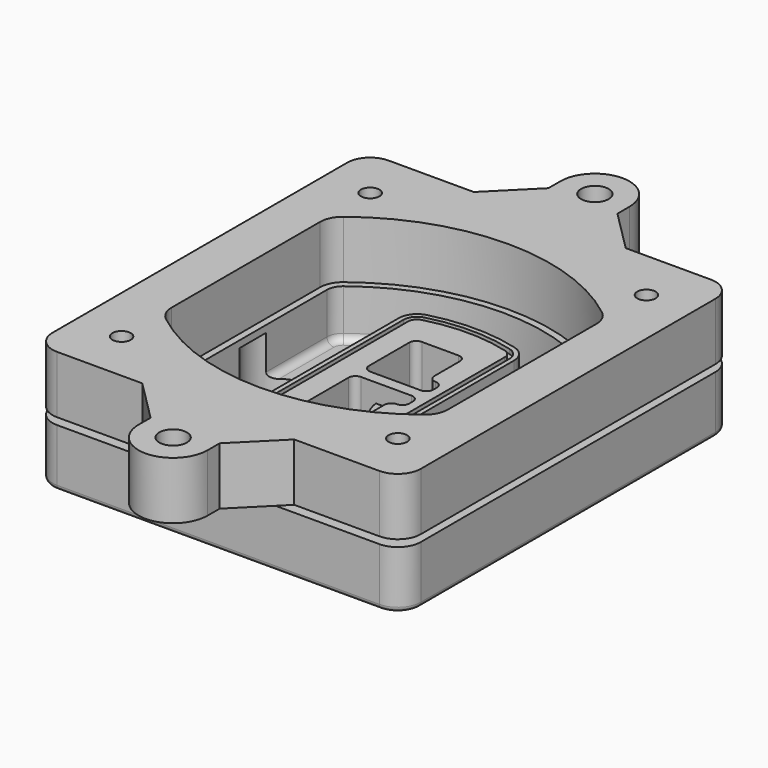
from build123d import *

# Parameters (mm, degrees)
F0_R      = 4
F1_DEPTH  = 25
F2_DEPTH  = 3
F3_DEPTH  = 18
F5_DEPTH  = 21
F6_DEPTH  = 2
F8_DEPTH  = 20
F9_DEPTH  = 16
F10_DEPTH = 25
F7_R      = 6
F7_R_2    = 4
F11_DEPTH = 6
F13_DEPTH = 9
F14_R     = 3
F15_R     = 2
F16_R     = 4
F16_R_2   = 6
F17_DEPTH = 25


with BuildPart() as f1:
    # F0 (on Top) → F1 (new body)
    with BuildSketch(Plane.XY):
        with BuildLine():
            ThreePointArc((-80, -80), (-77.0710678119, -87.0710678119), (-70, -90))
            Line((-70, -90), (70, -90))
            ThreePointArc((70, -90), (77.0710678119, -87.0710678119), (80, -80))
            Line((80, -80), (80, 80))
            ThreePointArc((80, 80), (77.0710678119, 87.0710678119), (70, 90))
            Line((70, 90), (-70, 90))
            ThreePointArc((-70, 90), (-77.0710678119, 87.0710678119), (-80, 80))
            Line((-80, 80), (-80, -80))
        make_face()
        with Locations((-60, -67.5)):
            Circle(F0_R, mode=Mode.SUBTRACT)
        with Locations((60, -67.5)):
            Circle(F0_R, mode=Mode.SUBTRACT)
        with Locations((-60, 67.5)):
            Circle(F0_R, mode=Mode.SUBTRACT)
        with BuildLine():
            ThreePointArc((-64, 40.2934422872), (-62.5820384798, 46.4328484224), (-58.6153846154, 51.3286200352))
            ThreePointArc((-58.6153846154, 51.3286200352), (0, 71.5), (58.6153846154, 51.3286200352))
            ThreePointArc((58.6153846154, 51.3286200352), (62.5820384798, 46.4328484224), (64, 40.2934422872))
            Line((64, 40.2934422872), (64, -40.2934422872))
            ThreePointArc((64, -40.2934422872), (62.5820384798, -46.4328484224), (58.6153846154, -51.3286200352))
            ThreePointArc((58.6153846154, -51.3286200352), (0, -71.5), (-58.6153846154, -51.3286200352))
            ThreePointArc((-58.6153846154, -51.3286200352), (-62.5820384798, -46.4328484224), (-64, -40.2934422872))
            Line((-64, -40.2934422872), (-64, 40.2934422872))
        make_face(mode=Mode.SUBTRACT)
        with Locations((60, 67.5)):
            Circle(F0_R, mode=Mode.SUBTRACT)
        with BuildLine():
            ThreePointArc((58.6153846154, 51.3286200352), (0, 71.5), (-58.6153846154, 51.3286200352))
            ThreePointArc((-58.6153846154, 51.3286200352), (-62.5820384798, 46.4328484224), (-64, 40.2934422872))
            Line((-64, 40.2934422872), (-64, -40.2934422872))
            ThreePointArc((-64, -40.2934422872), (-62.5820384798, -46.4328484224), (-58.6153846154, -51.3286200352))
            ThreePointArc((-58.6153846154, -51.3286200352), (0, -71.5), (58.6153846154, -51.3286200352))
            ThreePointArc((58.6153846154, -51.3286200352), (62.5820384798, -46.4328484224), (64, -40.2934422872))
            Line((64, -40.2934422872), (64, 40.2934422872))
            ThreePointArc((64, 40.2934422872), (62.5820384798, 46.4328484224), (58.6153846154, 51.3286200352))
        make_face()
        with BuildLine():
            Line((-60, -40.2934422872), (-60, 40.2934422872))
            ThreePointArc((-60, 40.2934422872), (-58.9871703427, 44.6787323838), (-56.1538461538, 48.1757121072))
            ThreePointArc((-56.1538461538, 48.1757121072), (0, 67.5), (56.1538461538, 48.1757121072))
            ThreePointArc((56.1538461538, 48.1757121072), (58.9871703427, 44.6787323838), (60, 40.2934422872))
            Line((60, 40.2934422872), (60, -40.2934422872))
            ThreePointArc((60, -40.2934422872), (58.9871703427, -44.6787323838), (56.1538461538, -48.1757121072))
            ThreePointArc((56.1538461538, -48.1757121072), (0, -67.5), (-56.1538461538, -48.1757121072))
            ThreePointArc((-56.1538461538, -48.1757121072), (-58.9871703427, -44.6787323838), (-60, -40.2934422872))
        make_face(mode=Mode.SUBTRACT)
        with BuildLine():
            ThreePointArc((-56.1538461538, 48.1757121072), (-58.9871703427, 44.6787323838), (-60, 40.2934422872))
            Line((-60, 40.2934422872), (-60, -40.2934422872))
            ThreePointArc((-60, -40.2934422872), (-58.9871703427, -44.6787323838), (-56.1538461538, -48.1757121072))
            ThreePointArc((-56.1538461538, -48.1757121072), (0, -67.5), (56.1538461538, -48.1757121072))
            ThreePointArc((56.1538461538, -48.1757121072), (58.9871703427, -44.6787323838), (60, -40.2934422872))
            Line((60, -40.2934422872), (60, 40.2934422872))
            ThreePointArc((60, 40.2934422872), (58.9871703427, 44.6787323838), (56.1538461538, 48.1757121072))
            ThreePointArc((56.1538461538, 48.1757121072), (0, 67.5), (-56.1538461538, 48.1757121072))
        make_face()
        with BuildLine():
            ThreePointArc((54.3076923077, 45.8110311612), (56.2910192399, 43.3631453548), (57, 40.2934422872))
            Line((57, 40.2934422872), (57, -40.2934422872))
            ThreePointArc((57, -40.2934422872), (56.2910192399, -43.3631453548), (54.3076923077, -45.8110311612))
            ThreePointArc((54.3076923077, -45.8110311612), (0, -64.5), (-54.3076923077, -45.8110311612))
            ThreePointArc((-54.3076923077, -45.8110311612), (-56.2910192399, -43.3631453548), (-57, -40.2934422872))
            Line((-57, -40.2934422872), (-57, 40.2934422872))
            ThreePointArc((-57, 40.2934422872), (-56.2910192399, 43.3631453548), (-54.3076923077, 45.8110311612))
            ThreePointArc((-54.3076923077, 45.8110311612), (0, 64.5), (54.3076923077, 45.8110311612))
        make_face(mode=Mode.SUBTRACT)
        with BuildLine():
            Line((57, -40.2934422872), (57, 40.2934422872))
            ThreePointArc((57, 40.2934422872), (56.2910192399, 43.3631453548), (54.3076923077, 45.8110311612))
            ThreePointArc((54.3076923077, 45.8110311612), (0, 64.5), (-54.3076923077, 45.8110311612))
            ThreePointArc((-54.3076923077, 45.8110311612), (-56.2910192399, 43.3631453548), (-57, 40.2934422872))
            Line((-57, 40.2934422872), (-57, -40.2934422872))
            ThreePointArc((-57, -40.2934422872), (-56.2910192399, -43.3631453548), (-54.3076923077, -45.8110311612))
            ThreePointArc((-54.3076923077, -45.8110311612), (0, -64.5), (54.3076923077, -45.8110311612))
            ThreePointArc((54.3076923077, -45.8110311612), (56.2910192399, -43.3631453548), (57, -40.2934422872))
        make_face()
    extrude(amount=-F1_DEPTH)

    # F0 (on Top) → F2 (join)
    with BuildSketch(Plane.XY):
        with BuildLine():
            ThreePointArc((-56.1538461538, 48.1757121072), (-58.9871703427, 44.6787323838), (-60, 40.2934422872))
            Line((-60, 40.2934422872), (-60, -40.2934422872))
            ThreePointArc((-60, -40.2934422872), (-58.9871703427, -44.6787323838), (-56.1538461538, -48.1757121072))
            ThreePointArc((-56.1538461538, -48.1757121072), (0, -67.5), (56.1538461538, -48.1757121072))
            ThreePointArc((56.1538461538, -48.1757121072), (58.9871703427, -44.6787323838), (60, -40.2934422872))
            Line((60, -40.2934422872), (60, 40.2934422872))
            ThreePointArc((60, 40.2934422872), (58.9871703427, 44.6787323838), (56.1538461538, 48.1757121072))
            ThreePointArc((56.1538461538, 48.1757121072), (0, 67.5), (-56.1538461538, 48.1757121072))
        make_face()
        with BuildLine():
            ThreePointArc((54.3076923077, 45.8110311612), (56.2910192399, 43.3631453548), (57, 40.2934422872))
            Line((57, 40.2934422872), (57, -40.2934422872))
            ThreePointArc((57, -40.2934422872), (56.2910192399, -43.3631453548), (54.3076923077, -45.8110311612))
            ThreePointArc((54.3076923077, -45.8110311612), (0, -64.5), (-54.3076923077, -45.8110311612))
            ThreePointArc((-54.3076923077, -45.8110311612), (-56.2910192399, -43.3631453548), (-57, -40.2934422872))
            Line((-57, -40.2934422872), (-57, 40.2934422872))
            ThreePointArc((-57, 40.2934422872), (-56.2910192399, 43.3631453548), (-54.3076923077, 45.8110311612))
            ThreePointArc((-54.3076923077, 45.8110311612), (0, 64.5), (54.3076923077, 45.8110311612))
        make_face(mode=Mode.SUBTRACT)
    extrude(amount=F2_DEPTH)

    # F0 (on Top) → F3 (cut)
    with BuildSketch(Plane.XY):
        with BuildLine():
            Line((57, -40.2934422872), (57, 40.2934422872))
            ThreePointArc((57, 40.2934422872), (56.2910192399, 43.3631453548), (54.3076923077, 45.8110311612))
            ThreePointArc((54.3076923077, 45.8110311612), (0, 64.5), (-54.3076923077, 45.8110311612))
            ThreePointArc((-54.3076923077, 45.8110311612), (-56.2910192399, 43.3631453548), (-57, 40.2934422872))
            Line((-57, 40.2934422872), (-57, -40.2934422872))
            ThreePointArc((-57, -40.2934422872), (-56.2910192399, -43.3631453548), (-54.3076923077, -45.8110311612))
            ThreePointArc((-54.3076923077, -45.8110311612), (0, -64.5), (54.3076923077, -45.8110311612))
            ThreePointArc((54.3076923077, -45.8110311612), (56.2910192399, -43.3631453548), (57, -40.2934422872))
        make_face()
    extrude(amount=-F3_DEPTH, mode=Mode.SUBTRACT)

    # F4 (on face) → F5 (join, through all)
    with BuildSketch(Plane.XY.offset(3)):
        with BuildLine():
            ThreePointArc((-25, -39.2465276821), (-23.3511545998, -44.1109737193), (-19.0842911877, -46.9702398883))
            ThreePointArc((-19.0842911877, -46.9702398883), (0, -49.5), (19.0842911877, -46.9702398883))
            ThreePointArc((19.0842911877, -46.9702398883), (23.3511545998, -44.1109737193), (25, -39.2465276821))
            Line((25, -39.2465276821), (25, 39.2465276821))
            ThreePointArc((25, 39.2465276821), (23.3511545998, 44.1109737193), (19.0842911877, 46.9702398883))
            ThreePointArc((19.0842911877, 46.9702398883), (0, 49.5), (-19.0842911877, 46.9702398883))
            ThreePointArc((-19.0842911877, 46.9702398883), (-23.3511545998, 44.1109737193), (-25, 39.2465276821))
            Line((-25, 39.2465276821), (-25, -39.2465276821))
        make_face()
        with BuildLine():
            ThreePointArc((18.5632183908, 45.0393118368), (21.7633659499, 42.89486221), (23, 39.2465276821))
            Line((23, 39.2465276821), (23, -39.2465276821))
            ThreePointArc((23, -39.2465276821), (21.7633659499, -42.89486221), (18.5632183908, -45.0393118368))
            ThreePointArc((18.5632183908, -45.0393118368), (0, -47.5), (-18.5632183908, -45.0393118368))
            ThreePointArc((-18.5632183908, -45.0393118368), (-21.7633659499, -42.89486221), (-23, -39.2465276821))
            Line((-23, -39.2465276821), (-23, 39.2465276821))
            ThreePointArc((-23, 39.2465276821), (-21.7633659499, 42.89486221), (-18.5632183908, 45.0393118368))
            ThreePointArc((-18.5632183908, 45.0393118368), (0, 47.5), (18.5632183908, 45.0393118368))
        make_face(mode=Mode.SUBTRACT)
        with BuildLine():
            Line((23, -39.2465276821), (23, 39.2465276821))
            ThreePointArc((23, 39.2465276821), (21.7633659499, 42.89486221), (18.5632183908, 45.0393118368))
            ThreePointArc((18.5632183908, 45.0393118368), (0, 47.5), (-18.5632183908, 45.0393118368))
            ThreePointArc((-18.5632183908, 45.0393118368), (-21.7633659499, 42.89486221), (-23, 39.2465276821))
            Line((-23, 39.2465276821), (-23, -39.2465276821))
            ThreePointArc((-23, -39.2465276821), (-21.7633659499, -42.89486221), (-18.5632183908, -45.0393118368))
            ThreePointArc((-18.5632183908, -45.0393118368), (0, -47.5), (18.5632183908, -45.0393118368))
            ThreePointArc((18.5632183908, -45.0393118368), (21.7633659499, -42.89486221), (23, -39.2465276821))
        make_face()
        with BuildLine():
            ThreePointArc((18.0421455939, 43.1083837852), (20.1755772999, 41.6787507007), (21, 39.2465276821))
            Line((21, 39.2465276821), (21, -39.2465276821))
            ThreePointArc((21, -39.2465276821), (20.1755772999, -41.6787507007), (18.0421455939, -43.1083837852))
            ThreePointArc((18.0421455939, -43.1083837852), (0, -45.5), (-18.0421455939, -43.1083837852))
            ThreePointArc((-18.0421455939, -43.1083837852), (-20.1755772999, -41.6787507007), (-21, -39.2465276821))
            Line((-21, -39.2465276821), (-21, 39.2465276821))
            ThreePointArc((-21, 39.2465276821), (-20.1755772999, 41.6787507007), (-18.0421455939, 43.1083837852))
            ThreePointArc((-18.0421455939, 43.1083837852), (0, 45.5), (18.0421455939, 43.1083837852))
        make_face(mode=Mode.SUBTRACT)
        with BuildLine():
            Line((21, -39.2465276821), (21, 39.2465276821))
            ThreePointArc((21, 39.2465276821), (20.1755772999, 41.6787507007), (18.0421455939, 43.1083837852))
            ThreePointArc((18.0421455939, 43.1083837852), (0, 45.5), (-18.0421455939, 43.1083837852))
            ThreePointArc((-18.0421455939, 43.1083837852), (-20.1755772999, 41.6787507007), (-21, 39.2465276821))
            Line((-21, 39.2465276821), (-21, -39.2465276821))
            ThreePointArc((-21, -39.2465276821), (-20.1755772999, -41.6787507007), (-18.0421455939, -43.1083837852))
            ThreePointArc((-18.0421455939, -43.1083837852), (0, -45.5), (18.0421455939, -43.1083837852))
            ThreePointArc((18.0421455939, -43.1083837852), (20.1755772999, -41.6787507007), (21, -39.2465276821))
        make_face()
        with BuildLine():
            Line((-8, -2.5), (14, -2.5))
            ThreePointArc((14, -2.5), (16.1213203436, -3.3786796564), (17, -5.5))
            Line((17, -5.5), (17, -7.5))
            ThreePointArc((17, -7.5), (16.1213203436, -9.6213203436), (14, -10.5))
            ThreePointArc((14, -10.5), (11.8786796564, -11.3786796564), (11, -13.5))
            Line((11, -13.5), (11, -27.5))
            ThreePointArc((11, -27.5), (10.1213203436, -29.6213203436), (8, -30.5))
            Line((8, -30.5), (-8, -30.5))
            ThreePointArc((-8, -30.5), (-10.1213203436, -29.6213203436), (-11, -27.5))
            Line((-11, -27.5), (-11, -5.5))
            ThreePointArc((-11, -5.5), (-10.1213203436, -3.3786796564), (-8, -2.5))
        make_face(mode=Mode.SUBTRACT)
        with BuildLine():
            ThreePointArc((-8, 2.5), (-10.1213203436, 3.3786796564), (-11, 5.5))
            Line((-11, 5.5), (-11, 27.5))
            ThreePointArc((-11, 27.5), (-10.1213203436, 29.6213203436), (-8, 30.5))
            Line((-8, 30.5), (8, 30.5))
            ThreePointArc((8, 30.5), (10.1213203436, 29.6213203436), (11, 27.5))
            Line((11, 27.5), (11, 13.5))
            ThreePointArc((11, 13.5), (11.8786796564, 11.3786796564), (14, 10.5))
            ThreePointArc((14, 10.5), (16.1213203436, 9.6213203436), (17, 7.5))
            Line((17, 7.5), (17, 5.5))
            ThreePointArc((17, 5.5), (16.1213203436, 3.3786796564), (14, 2.5))
            Line((14, 2.5), (-8, 2.5))
        make_face(mode=Mode.SUBTRACT)
    extrude(amount=-F5_DEPTH)

    # F4 (on face) → F6 (cut)
    with BuildSketch(Plane.XY.offset(3)):
        with BuildLine():
            Line((23, -39.2465276821), (23, 39.2465276821))
            ThreePointArc((23, 39.2465276821), (21.7633659499, 42.89486221), (18.5632183908, 45.0393118368))
            ThreePointArc((18.5632183908, 45.0393118368), (0, 47.5), (-18.5632183908, 45.0393118368))
            ThreePointArc((-18.5632183908, 45.0393118368), (-21.7633659499, 42.89486221), (-23, 39.2465276821))
            Line((-23, 39.2465276821), (-23, -39.2465276821))
            ThreePointArc((-23, -39.2465276821), (-21.7633659499, -42.89486221), (-18.5632183908, -45.0393118368))
            ThreePointArc((-18.5632183908, -45.0393118368), (0, -47.5), (18.5632183908, -45.0393118368))
            ThreePointArc((18.5632183908, -45.0393118368), (21.7633659499, -42.89486221), (23, -39.2465276821))
        make_face()
        with BuildLine():
            ThreePointArc((18.0421455939, 43.1083837852), (20.1755772999, 41.6787507007), (21, 39.2465276821))
            Line((21, 39.2465276821), (21, -39.2465276821))
            ThreePointArc((21, -39.2465276821), (20.1755772999, -41.6787507007), (18.0421455939, -43.1083837852))
            ThreePointArc((18.0421455939, -43.1083837852), (0, -45.5), (-18.0421455939, -43.1083837852))
            ThreePointArc((-18.0421455939, -43.1083837852), (-20.1755772999, -41.6787507007), (-21, -39.2465276821))
            Line((-21, -39.2465276821), (-21, 39.2465276821))
            ThreePointArc((-21, 39.2465276821), (-20.1755772999, 41.6787507007), (-18.0421455939, 43.1083837852))
            ThreePointArc((-18.0421455939, 43.1083837852), (0, 45.5), (18.0421455939, 43.1083837852))
        make_face(mode=Mode.SUBTRACT)
    extrude(amount=-F6_DEPTH, mode=Mode.SUBTRACT)

    # F7 (on face) → F8 (join)
    with BuildSketch(Plane(origin=(0, 0, -25), x_dir=(1, 0, 0), z_dir=(0, 0, -1))):
        with BuildLine():
            ThreePointArc((3.28842436, 0), (16.7567035675, 13.4682792075), (30.224982775, 0))
            Line((30.224982775, 0), (35.224982775, 0))
            ThreePointArc((35.224982775, 0), (16.7567035675, 18.4682792075), (-1.71157564, 0))
            Line((-1.71157564, 0), (3.28842436, 0))
        make_face()
        with BuildLine():
            Line((3.28842436, 0), (30.224982775, 0))
            ThreePointArc((30.224982775, 0), (16.7567035675, 13.4682792075), (3.28842436, 0))
        make_face()
        with BuildLine():
            ThreePointArc((3.28842436, 0), (16.7567035675, -13.4682792075), (30.224982775, 0))
            Line((30.224982775, 0), (3.28842436, 0))
        make_face()
        with BuildLine():
            Line((35.224982775, 0), (30.224982775, 0))
            ThreePointArc((30.224982775, 0), (16.7567035675, -13.4682792075), (3.28842436, 0))
            Line((3.28842436, 0), (-1.71157564, 0))
            ThreePointArc((-1.71157564, 0), (16.7567035675, -18.4682792075), (35.224982775, 0))
        make_face()
    extrude(amount=-F8_DEPTH)

    # F7 (on face) → F9 (cut)
    with BuildSketch(Plane(origin=(0, 0, -25), x_dir=(1, 0, 0), z_dir=(0, 0, -1))):
        with BuildLine():
            Line((3.28842436, 0), (30.224982775, 0))
            ThreePointArc((30.224982775, 0), (16.7567035675, 13.4682792075), (3.28842436, 0))
        make_face()
        with BuildLine():
            ThreePointArc((3.28842436, 0), (16.7567035675, -13.4682792075), (30.224982775, 0))
            Line((30.224982775, 0), (3.28842436, 0))
        make_face()
    extrude(amount=-F9_DEPTH, mode=Mode.SUBTRACT)

    # F7 (on face) → F10 (cut)
    with BuildSketch(Plane(origin=(0, 0, -25), x_dir=(1, 0, 0), z_dir=(0, 0, -1))):
        with BuildLine():
            Line((-59.0318229325, 0), (-32.0952645175, 0))
            ThreePointArc((-32.0952645175, 0), (-45.563543725, 13.4682792075), (-59.0318229325, 0))
        make_face()
        with BuildLine():
            ThreePointArc((-59.0318229325, 0), (-45.563543725, -13.4682792075), (-32.0952645175, 0))
            Line((-32.0952645175, 0), (-59.0318229325, 0))
        make_face()
    extrude(amount=-F10_DEPTH, mode=Mode.SUBTRACT)

    # F7 (on face) → F11 (cut)
    with BuildSketch(Plane(origin=(0, 0, -25), x_dir=(1, 0, 0), z_dir=(0, 0, -1))):
        with Locations((60, -67.5)):
            Circle(F7_R)
        with Locations((60, -67.5)):
            Circle(F7_R_2, mode=Mode.SUBTRACT)
        with Locations((60, -67.5)):
            Circle(F7_R)
        with Locations((60, -67.5)):
            Circle(F7_R_2, mode=Mode.SUBTRACT)
        with Locations((-60, -67.5)):
            Circle(F7_R)
        with Locations((-60, -67.5)):
            Circle(F7_R_2, mode=Mode.SUBTRACT)
        with Locations((-60, -67.5)):
            Circle(F7_R)
        with Locations((-60, -67.5)):
            Circle(F7_R_2, mode=Mode.SUBTRACT)
        with Locations((-60, 67.5)):
            Circle(F7_R)
        with Locations((-60, 67.5)):
            Circle(F7_R_2, mode=Mode.SUBTRACT)
        with Locations((-60, 67.5)):
            Circle(F7_R)
        with Locations((-60, 67.5)):
            Circle(F7_R_2, mode=Mode.SUBTRACT)
        with Locations((60, 67.5)):
            Circle(F7_R)
        with Locations((60, 67.5)):
            Circle(F7_R_2, mode=Mode.SUBTRACT)
        with Locations((60, 67.5)):
            Circle(F7_R)
        with Locations((60, 67.5)):
            Circle(F7_R_2, mode=Mode.SUBTRACT)
    extrude(amount=-F11_DEPTH, mode=Mode.SUBTRACT)

    # F12 (on face) → F13 (cut, through all)
    with BuildSketch(Plane(origin=(0, 0, -9), x_dir=(1, 0, 0), z_dir=(0, 0, -1))):
        with BuildLine():
            Line((11, 13.5), (11, 17.5481537753))
            ThreePointArc((11, 17.5481537753), (2.5696536419, 11.8239143813), (-1.5415842455, 2.5))
            Line((-1.5415842455, 2.5), (3.5224848595, 2.5))
            ThreePointArc((3.5224848595, 2.5), (6.1857188154, 8.3455872281), (11.2536447004, 12.2927168648))
            ThreePointArc((11.2536447004, 12.2927168648), (11.0640958889, 12.8831798879), (11, 13.5))
        make_face()
        with BuildLine():
            ThreePointArc((11.2536447004, -12.2927168648), (6.1857188154, -8.3455872281), (3.5224848595, -2.5))
            Line((3.5224848595, -2.5), (-1.5415842455, -2.5))
            ThreePointArc((-1.5415842455, -2.5), (2.5696536419, -11.8239143813), (11, -17.5481537753))
            Line((11, -17.5481537753), (11, -13.5))
            ThreePointArc((11, -13.5), (11.0640958889, -12.8831798879), (11.2536447004, -12.2927168648))
        make_face()
        with BuildLine():
            ThreePointArc((11.2536447004, 12.2927168648), (6.1857188154, 8.3455872281), (3.5224848595, 2.5))
            Line((3.5224848595, 2.5), (14, 2.5))
            ThreePointArc((14, 2.5), (16.1213203436, 3.3786796564), (17, 5.5))
            Line((17, 5.5), (17, 7.5))
            ThreePointArc((17, 7.5), (16.1213203436, 9.6213203436), (14, 10.5))
            ThreePointArc((14, 10.5), (12.3601599782, 10.9878446101), (11.2536447004, 12.2927168648))
        make_face()
        with BuildLine():
            Line((14, -2.5), (3.5224848595, -2.5))
            ThreePointArc((3.5224848595, -2.5), (6.1857188154, -8.3455872281), (11.2536447004, -12.2927168648))
            ThreePointArc((11.2536447004, -12.2927168648), (12.3601599782, -10.9878446101), (14, -10.5))
            ThreePointArc((14, -10.5), (16.1213203436, -9.6213203436), (17, -7.5))
            Line((17, -7.5), (17, -5.5))
            ThreePointArc((17, -5.5), (16.1213203436, -3.3786796564), (14, -2.5))
        make_face()
    extrude(amount=F13_DEPTH, mode=Mode.SUBTRACT)

    # F14
    f14_edges = [f1.edges().sort_by_distance(p)[0] for p in [
        (-57, -23.703476, -18),
        (-57, 23.703476, -18),
        (25, 0, -5),
        (25, 16.526506, -11.5),
        (25, -16.526506, -11.5),
        (25, -27.886517, -18),
        (35.224983, 0, -18),
    ]]
    fillet(f14_edges, radius=F14_R)

    # F15
    f15_edges = [f1.edges().sort_by_distance(p)[0] for p in [
        (0, -90, -25),
    ]]
    fillet(f15_edges, radius=F15_R)


with BuildPart() as f17:
    # F16 (on face) → F17 (new body)
    with BuildSketch(Plane.XY.offset(3)):
        with BuildLine():
            Line((-33, 90), (-70, 90))
            ThreePointArc((-70, 90), (-77.0710678119, 87.0710678119), (-80, 80))
            Line((-80, 80), (-80, -80))
            ThreePointArc((-80, -80), (-77.0710678119, -87.0710678119), (-70, -90))
            Line((-70, -90), (-33, -90))
            Line((-33, -90), (33, -90))
            Line((33, -90), (70, -90))
            ThreePointArc((70, -90), (77.0710678119, -87.0710678119), (80, -80))
            Line((80, -80), (80, 80))
            ThreePointArc((80, 80), (77.0710678119, 87.0710678119), (70, 90))
            Line((70, 90), (33, 90))
            Line((33, 90), (-33, 90))
        make_face()
        with Locations((-60, -67.5)):
            Circle(F16_R, mode=Mode.SUBTRACT)
        with Locations((60, -67.5)):
            Circle(F16_R, mode=Mode.SUBTRACT)
        with Locations((-60, 67.5)):
            Circle(F16_R, mode=Mode.SUBTRACT)
        with BuildLine():
            ThreePointArc((56.1538461538, 48.1757121072), (58.9871703427, 44.6787323838), (60, 40.2934422872))
            Line((60, 40.2934422872), (60, -40.2934422872))
            ThreePointArc((60, -40.2934422872), (58.9871703427, -44.6787323838), (56.1538461538, -48.1757121072))
            ThreePointArc((56.1538461538, -48.1757121072), (0, -67.5), (-56.1538461538, -48.1757121072))
            ThreePointArc((-56.1538461538, -48.1757121072), (-58.9871703427, -44.6787323838), (-60, -40.2934422872))
            Line((-60, -40.2934422872), (-60, 40.2934422872))
            ThreePointArc((-60, 40.2934422872), (-58.9871703427, 44.6787323838), (-56.1538461538, 48.1757121072))
            ThreePointArc((-56.1538461538, 48.1757121072), (0, 67.5), (56.1538461538, 48.1757121072))
        make_face(mode=Mode.SUBTRACT)
        with Locations((60, 67.5)):
            Circle(F16_R, mode=Mode.SUBTRACT)
        with BuildLine():
            Line((-15, 108), (-33, 90))
            Line((-33, 90), (33, 90))
            Line((33, 90), (15, 108))
            Line((15, 108), (15, 114.5147186258))
            ThreePointArc((15, 114.5147186258), (0, 129.5147186258), (-15, 114.5147186258))
            Line((-15, 114.5147186258), (-15, 108))
        make_face()
        with Locations((0, 114.5147186258)):
            Circle(F16_R_2, mode=Mode.SUBTRACT)
        with BuildLine():
            Line((33, -90), (-33, -90))
            Line((-33, -90), (-15, -108))
            Line((-15, -108), (-15, -114.5147186258))
            ThreePointArc((-15, -114.5147186258), (0, -129.5147186258), (15, -114.5147186258))
            Line((15, -114.5147186258), (15, -108))
            Line((15, -108), (33, -90))
        make_face()
        with Locations((0, -114.5147186258)):
            Circle(F16_R_2, mode=Mode.SUBTRACT)
    extrude(amount=F17_DEPTH)


solid = Compound([f1.part, f17.part])
